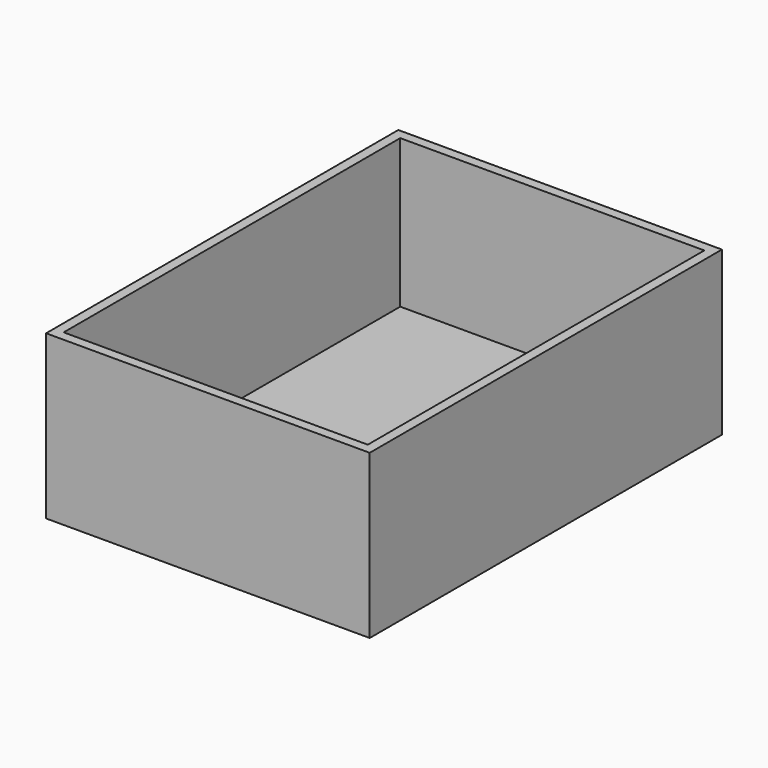
from build123d import *

# Parameters (mm, degrees)
F1_DEPTH = 540
F2_W     = 12
F2_H     = 182
F2_H_2   = 18
F3_DEPTH = 380


with BuildPart() as f1:
    # F0 (on Front) → F1 (new body)
    with BuildSketch(Plane.XZ):
        Polygon((187, 0), (0, 0), (-186, 0), (-186, 182), (-198, 182), (-198, -18), (-186, -18), (-186, -6), (187, -6), (187, -18), (199, -18), (199, 182), (187, 182), align=None)
    extrude(amount=F1_DEPTH)

    # F2 (on face) → F3 (join)
    with BuildSketch(Plane.YZ.offset(-186)):
        with Locations((-534, 91)):
            Rectangle(F2_W, F2_H)
        with Locations((-534, -9)):
            Rectangle(F2_W, F2_H_2)
        with Locations((-6, 91)):
            Rectangle(F2_W, F2_H)
    extrude(amount=F3_DEPTH)


solid = f1.part
